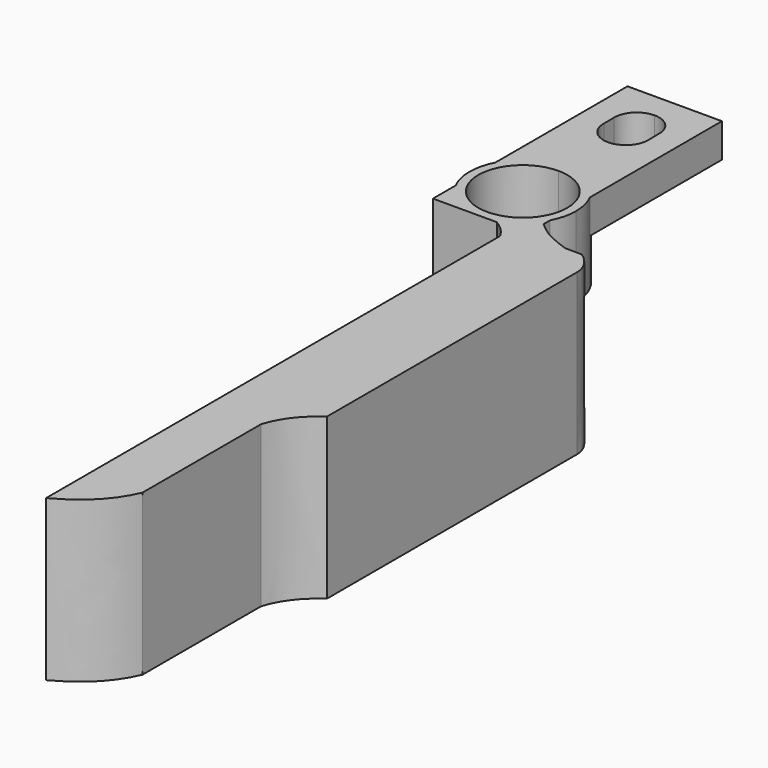
from build123d import *

# Parameters (mm, degrees)
F1_DEPTH = 5.9
F2_DEPTH = 2.5
F3_DEPTH = 11.8


with BuildPart() as f1:
    # F0 (on Top) → F1 (new body)
    with BuildSketch(Plane.XY):
        with BuildLine():
            Line((3.475, 0.65), (3.475, 0))
            ThreePointArc((3.475, 0), (4.7730375063, 0.2208504846), (5.925, 0.8585484677))
            ThreePointArc((5.925, 0.8585484677), (6.5018486959, 1.426237912), (6.95, 2.1001712409))
            Line((6.95, 2.1001712409), (6.95, 5.7498287591))
            ThreePointArc((6.95, 5.7498287591), (5.5051689733, 7.2841723593), (3.475, 7.85))
            Line((3.475, 7.85), (3.475, 7.2))
            ThreePointArc((3.475, 7.2), (5.7907747084, 6.2407747084), (6.75, 3.925))
            ThreePointArc((6.75, 3.925), (5.7907747084, 1.6092252916), (3.475, 0.65))
        make_face()
        with BuildLine():
            Line((0, 5.7498287591), (0, 2.1001712409))
            ThreePointArc((0, 2.1001712409), (0.4481513041, 1.426237912), (1.025, 0.8585484677))
            ThreePointArc((1.025, 0.8585484677), (2.1769624937, 0.2208504846), (3.475, 0))
            Line((3.475, 0), (3.475, 0.65))
            ThreePointArc((3.475, 0.65), (0.2, 3.925), (3.475, 7.2))
            Line((3.475, 7.2), (3.475, 7.85))
            ThreePointArc((3.475, 7.85), (1.4448310267, 7.2841723593), (0, 5.7498287591))
        make_face()
        with BuildLine():
            Line((0, 2.1001712409), (0, 0))
            Line((0, 0), (1.025, 0))
            Line((1.025, 0), (1.025, 0.8585484677))
            ThreePointArc((1.025, 0.8585484677), (0.4481513041, 1.426237912), (0, 2.1001712409))
        make_face()
        with BuildLine():
            Line((1.025, 0.8585484677), (1.025, 0))
            Line((1.025, 0), (3.475, 0))
            ThreePointArc((3.475, 0), (2.1769624937, 0.2208504846), (1.025, 0.8585484677))
        make_face()
        with BuildLine():
            ThreePointArc((0, 5.7498287591), (-0.45, 3.925), (0, 2.1001712409))
            Line((0, 2.1001712409), (0, 5.7498287591))
        make_face()
        with BuildLine():
            Line((6.95, 5.7498287591), (6.95, 2.1001712409))
            ThreePointArc((6.95, 2.1001712409), (7.2858398025, 2.9852526935), (7.4, 3.925))
            ThreePointArc((7.4, 3.925), (7.2858398025, 4.8647473065), (6.95, 5.7498287591))
        make_face()
        with BuildLine():
            ThreePointArc((6.95, 2.1001712409), (6.5018486959, 1.426237912), (5.925, 0.8585484677))
            Line((5.925, 0.8585484677), (5.925, 0))
            Line((5.925, 0), (6.95, 0))
            Line((6.95, 0), (6.95, 1.44))
            Line((6.95, 1.44), (6.95, 1.5))
            Line((6.95, 1.5), (6.95, 2.1001712409))
        make_face()
        with BuildLine():
            ThreePointArc((5.925, 0.8585484677), (4.7730375063, 0.2208504846), (3.475, 0))
            Line((3.475, 0), (4.7, 0))
            Line((4.7, 0), (5.925, 0))
            Line((5.925, 0), (5.925, 0.8585484677))
        make_face()
        with BuildLine():
            Line((5.925, 0), (4.7, 0))
            add(Edge.make_bspline(
                [(4.7, 0), (5.2537494339, -0.3164176305), (5.6369397789, -0.7196032093), (5.925, -1.225)],
                knots=[0, 0, 0, 0, 1.7324116139, 1.7324116139, 1.7324116139, 1.7324116139], degree=3))
            Line((5.925, -1.225), (5.925, -0.079424061))
            Line((5.925, -0.079424061), (5.925, 0))
        make_face()
        with BuildLine():
            Line((6.95, 1.44), (6.95, 0))
            Line((6.95, 0), (9.8284865708, -0.079424061))
            add(Edge.make_bspline(
                [(6.95, 1.5), (7.7566024847, 0.7003984647), (8.7155010551, 0.2800084476), (9.8284865708, -0.079424061)],
                knots=[0, 0, 0, 0, 3.2833314336, 3.2833314336, 3.2833314336, 3.2833314336], degree=3))
            Line((6.95, 1.5), (6.95, 1.44))
        make_face()
    extrude(amount=-F1_DEPTH)

    # F0 (on Top) → F2 (join)
    with BuildSketch(Plane.XY):
        with BuildLine():
            Line((0, 7.85), (0, 5.7498287591))
            ThreePointArc((0, 5.7498287591), (1.4448310267, 7.2841723593), (3.475, 7.85))
            ThreePointArc((3.475, 7.85), (5.5051689733, 7.2841723593), (6.95, 5.7498287591))
            Line((6.95, 5.7498287591), (6.95, 17.9))
            Line((6.95, 17.9), (3.475, 17.9))
            Line((3.475, 17.9), (0, 17.9))
            Line((0, 17.9), (0, 7.85))
        make_face()
        with BuildLine():
            ThreePointArc((1.8276640256, 14.3833613398), (2.3042302705, 15.55900427), (3.475, 16.0474200003))
            ThreePointArc((3.475, 16.0474200003), (4.5253988967, 15.6691157612), (5.0933824344, 14.7079463483))
            Line((5.0933824344, 14.7079463483), (5.1024433757, 14.1442252627))
            Line((5.1024433757, 14.1442252627), (5.113982201, 13.4263440945))
            ThreePointArc((5.113982201, 13.4263440945), (5.1141409801, 13.4131724726), (5.1141939076, 13.4))
            ThreePointArc((5.1141939076, 13.4), (4.6340851277, 12.2409148723), (3.475, 11.7608060924))
            ThreePointArc((3.475, 11.7608060924), (2.2942628451, 12.2629791393), (1.8369719791, 13.4618131819))
            Line((1.8369719791, 13.4618131819), (1.8276640256, 14.3833613398))
        make_face(mode=Mode.SUBTRACT)
    extrude(amount=-F2_DEPTH)

    # F0 (on Top) → F3 (join)
    with BuildSketch(Plane.XY):
        with BuildLine():
            Line((9.8284865708, -25), (5.925, -25))
            Line((5.925, -25), (5.925, -26.9515))
            Line((5.925, -26.9515), (5.925, -28.903))
            Line((5.925, -28.903), (5.925, -43))
            add(Edge.make_bspline(
                [(5.925, -43), (7.9286471009, -41.9465117157), (9.1273570433, -40.6301692128), (9.8284865708, -39.0049032867)],
                knots=[0, 0, 0, 0, 5.5855174476, 5.5855174476, 5.5855174476, 5.5855174476], degree=3))
            Line((9.8284865708, -39.0049032867), (9.8284865708, -28.1095039099))
            Line((9.8284865708, -28.1095039099), (9.8284865708, -25))
        make_face()
        with BuildLine():
            Line((12.1934865708, -25), (9.8284865708, -25))
            Line((9.8284865708, -25), (9.8284865708, -28.1095039099))
            add(Edge.make_bspline(
                [(12.1934865708, -25), (11.0498676077, -25.7655549794), (10.2052474394, -26.863457635), (9.8284865708, -28.1095039099)],
                knots=[0, 0, 0, 0, 3.9066916395, 3.9066916395, 3.9066916395, 3.9066916395], degree=3))
        make_face()
        Polygon((6.95, 0), (5.925, 0), (5.925, -0.079424061), (5.925, -1.225), (5.925, -21.3844068348), (5.925, -22.55), (5.925, -22.9875), (5.925, -25), (9.8284865708, -25), (9.8284865708, -0.079424061), align=None)
        with BuildLine():
            Line((11.0109865708, -0.079424061), (9.8284865708, -0.079424061))
            Line((9.8284865708, -0.079424061), (9.8284865708, -25))
            Line((9.8284865708, -25), (12.1934865708, -25))
            Line((12.1934865708, -25), (12.1934865708, -1.9685707521))
            add(Edge.make_bspline(
                [(11.0109865708, -0.079424061), (11.7086665705, -0.5204698537), (12.1934865708, -1.29045418), (12.1934865708, -1.9685707521)],
                knots=[0, 0, 0, 0, 2.2287174496, 2.2287174496, 2.2287174496, 2.2287174496], degree=3))
        make_face()
    extrude(amount=-F3_DEPTH)


solid = f1.part
